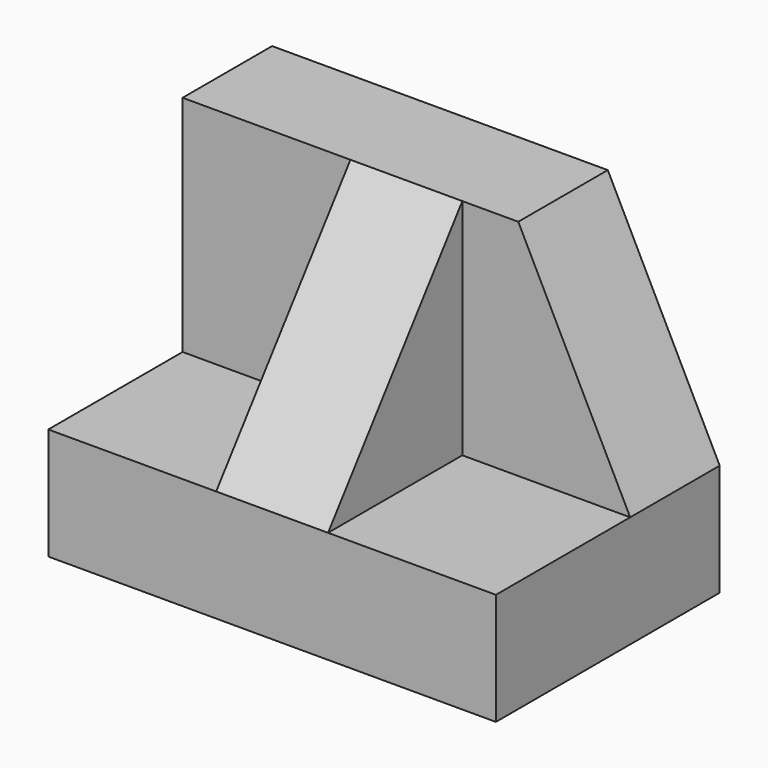
from build123d import *

# Parameters (mm, degrees)
F0_W     = 50.8
F0_H     = 38.1
F1_DEPTH = 31.75
F2_W     = 19.05
F2_H     = 25.4
F3_DEPTH = 19.05
F4_W     = 19.05
F4_H     = 25.4
F5_DEPTH = 19.05
F7_DEPTH = 25.4
F9_DEPTH = 25.4


with BuildPart() as f1:
    # F0 (on Front) → F1 (new body)
    with BuildSketch(Plane.XZ):
        with Locations((25.4, 19.05)):
            Rectangle(F0_W, F0_H)
    extrude(amount=F1_DEPTH)

    # F2 (on face) → F3 (cut)
    with BuildSketch(Plane.XZ.offset(31.75)):
        with Locations((9.525, 25.4)):
            Rectangle(F2_W, F2_H)
    extrude(amount=-F3_DEPTH, mode=Mode.SUBTRACT)

    # F4 (on face) → F5 (cut)
    with BuildSketch(Plane.XZ.offset(31.75)):
        with Locations((41.275, 25.4)):
            Rectangle(F4_W, F4_H)
    extrude(amount=-F5_DEPTH, mode=Mode.SUBTRACT)

    # F6 (on face) → F7 (cut)
    with BuildSketch(Plane.YZ.offset(31.75)):
        Polygon((-31.75, 38.1), (-31.75, 12.7), (-12.7, 38.1), align=None)
    extrude(amount=-F7_DEPTH, mode=Mode.SUBTRACT)

    # F8 (on face) → F9 (cut)
    with BuildSketch(Plane.XZ.offset(12.7)):
        Polygon((50.8, 38.1), (38.1, 38.1), (50.8, 12.7), align=None)
    extrude(amount=-F9_DEPTH, mode=Mode.SUBTRACT)


solid = f1.part
